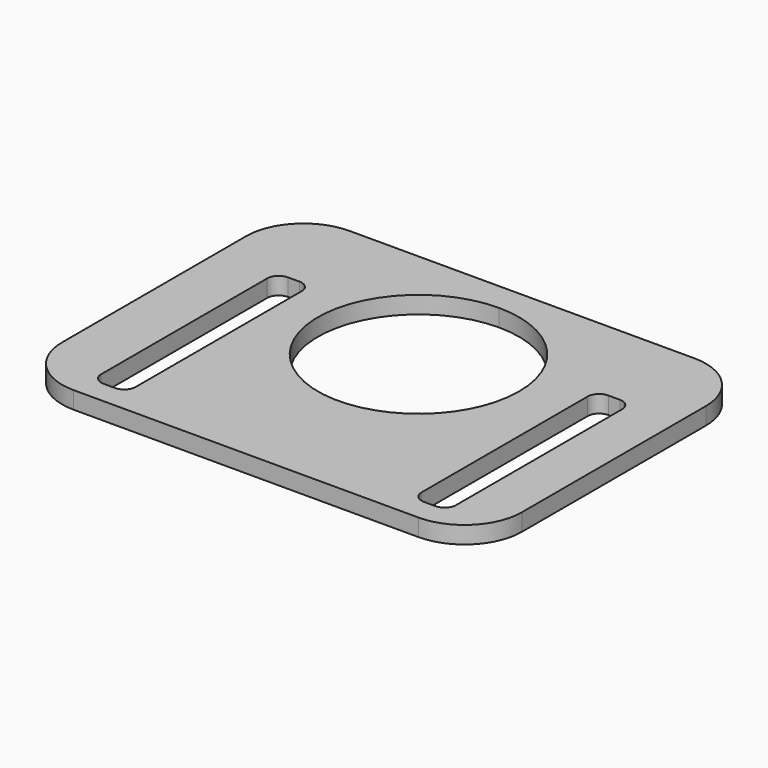
from build123d import *

# Parameters (mm, degrees)
F1_DEPTH = 3


with BuildPart() as f1:
    # F0 (on Top) → F1 (new body)
    with BuildSketch(Plane.XY):
        with BuildLine():
            Line((-67.040354, 0), (-10, 0))
            ThreePointArc((-10, 0), (-2.928932, 2.928932), (0, 10))
            Line((0, 10), (0, 30))
            Line((0, 30), (0, 50))
            ThreePointArc((0, 50), (-2.928932, 57.071068), (-10, 60))
            Line((-10, 60), (-40, 60))
            Line((-40, 60), (-70, 60))
            ThreePointArc((-70, 60), (-77.071068, 57.071068), (-80, 50))
            Line((-80, 50), (-80, 36.222443))
            Line((-80, 36.222443), (-80, 10))
            ThreePointArc((-80, 10), (-77.071068, 2.928932), (-70, 0))
            Line((-70, 0), (-67.040354, 0))
        make_face()
        with BuildLine():
            Line((-66, 4), (-67.040354, 4))
            Line((-67.040354, 4), (-68, 4))
            ThreePointArc((-68, 4), (-69.414214, 4.585786), (-70, 6))
            Line((-70, 6), (-70, 42.1))
            ThreePointArc((-70, 42.1), (-69.414214, 43.514214), (-68, 44.1))
            Line((-68, 44.1), (-66, 44.1))
            ThreePointArc((-66, 44.1), (-64.585786, 43.514214), (-64, 42.1))
            Line((-64, 42.1), (-64, 6))
            ThreePointArc((-64, 6), (-64.585786, 4.585786), (-66, 4))
        make_face(mode=Mode.SUBTRACT)
        with BuildLine():
            Line((-8.297237, 42.15616), (-8.297237, 30))
            Line((-8.297237, 30), (-8.297237, 6.05616))
            ThreePointArc((-8.297237, 6.05616), (-8.883023, 4.641946), (-10.297237, 4.05616))
            Line((-10.297237, 4.05616), (-12.297237, 4.05616))
            ThreePointArc((-12.297237, 4.05616), (-13.71145, 4.641946), (-14.297237, 6.05616))
            Line((-14.297237, 6.05616), (-14.297237, 42.15616))
            ThreePointArc((-14.297237, 42.15616), (-13.71145, 43.570373), (-12.297237, 44.15616))
            Line((-12.297237, 44.15616), (-10.297237, 44.15616))
            ThreePointArc((-10.297237, 44.15616), (-8.883023, 43.570373), (-8.297237, 42.15616))
        make_face(mode=Mode.SUBTRACT)
        with BuildLine():
            ThreePointArc((-22.499999, 37.5), (-52.374367, 25.125631), (-40, 55))
            ThreePointArc((-40, 55), (-27.625631, 49.874369), (-22.499999, 37.5))
        make_face(mode=Mode.SUBTRACT)
    extrude(amount=F1_DEPTH)


solid = f1.part
